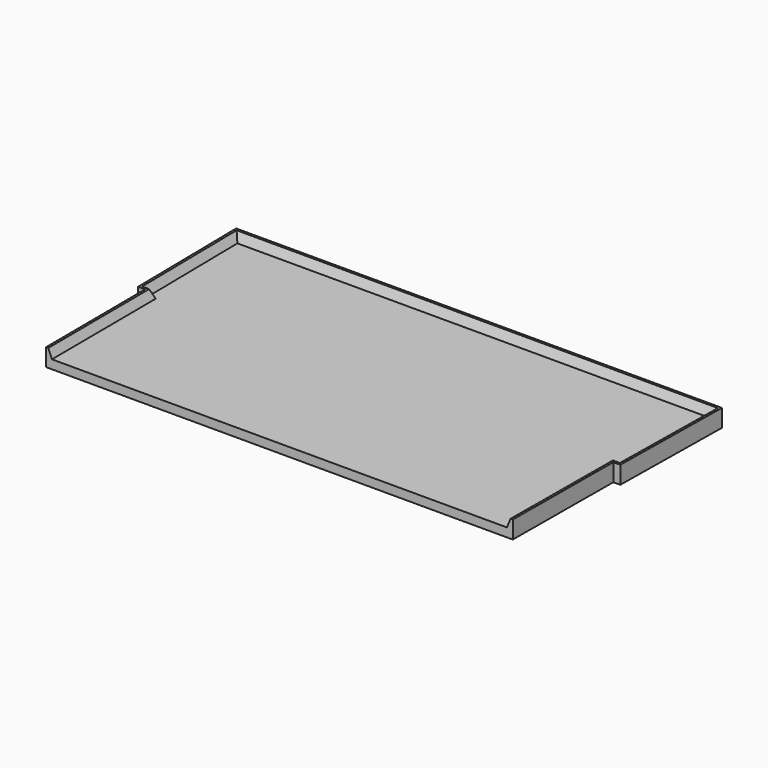
from build123d import *

# Parameters (mm, degrees)
PAD_DEPTH = 1.2


with BuildPart() as part:
    # Sketch → Pad (new body)
    with BuildSketch(Plane.XY):
        Polygon((-32.45, -17), (31.15, -17), (31.25, 0), (32.2, 0), (32.45, 17), (-33.75, 17), (-33.5, 0), (-32.55, 0), align=None)
    extrude(amount=PAD_DEPTH)

    # Sketch001 → AdditiveLoft section 0
    with BuildSketch(Plane.XY.offset(1.2)):
        Polygon((32.45, 17), (32.2, 0), (31.25, 0), (31.15, -17), (30.349986, -17), (30.454692, 0.8), (31.411678, 0.8), (31.63815, 16.200086), (-32.93815, 16.200086), (-32.711678, 0.8), (-31.754692, 0.8), (-31.649986, -17), (-32.45, -17), (-32.55, 0), (-33.5, 0), (-33.75, 17), align=None)
    # Sketch002 → AdditiveLoft section 1
    with BuildSketch(Plane.XY.offset(2.4)):
        Polygon((32.45, 17), (32.2, 0), (31.25, 0), (31.15, -17), (30.849995, -17), (30.95176, 0.3), (31.904379, 0.3), (32.145556, 16.700032), (-33.445556, 16.700032), (-33.204379, 0.3), (-32.25176, 0.3), (-32.149995, -17), (-32.45, -17), (-32.55, 0), (-33.5, 0), (-33.75, 17), align=None)
    loft()


solid = part.part
